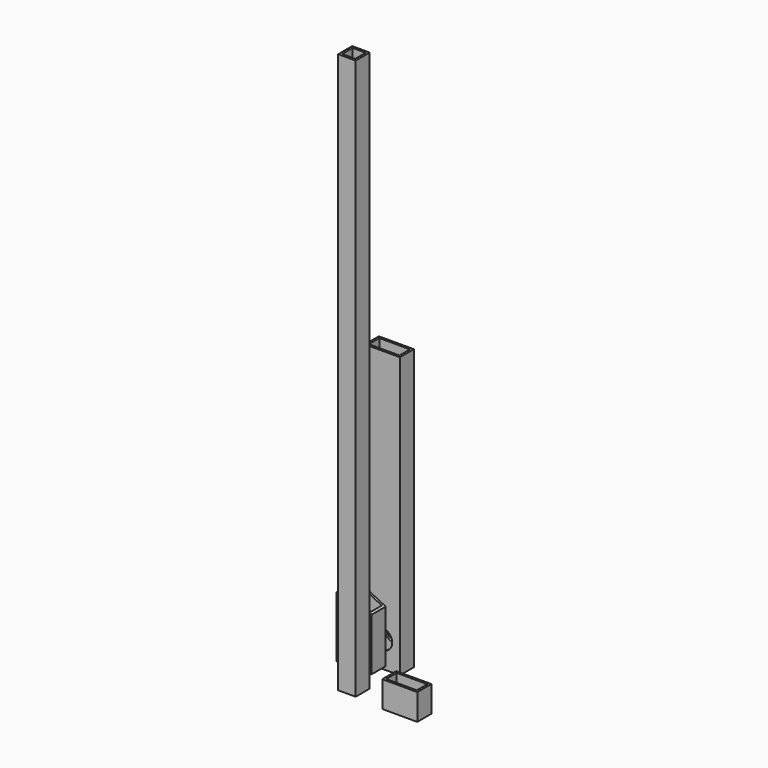
from build123d import *

# Parameters (mm, degrees)
F1_DEPTH  = 25.4
F2_T      = -3.175
F3_W      = 25.4
F3_H      = 25.4
F4_DEPTH  = 812.8
F5_T      = -3.175
F6_W      = 50.8
F6_H      = 25.4
F7_DEPTH  = 38.1
F8_T      = -3.175
F9_W      = 50.8
F9_H      = 25.4
F10_DEPTH = 406.4
F11_T     = -3.175
F12_R     = 14.2875
F13_DEPTH = 25.4


with BuildPart() as f1:
    # F0 (on Front) → F1 (new body)
    with BuildSketch(Plane.XZ):
        Polygon((-57.431955, 101.951429), (-82.831955, 101.951429), (-82.831955, 13.051429), (-32.031955, 13.051429), (-32.031955, 89.251429), align=None)
    extrude(amount=F1_DEPTH)

    # F2
    f2_openings = [f1.faces().sort_by_distance(p)[0] for p in [
        (-44.731955, -12.7, 95.601429),
        (-70.131955, -12.7, 101.951429),
        (-57.431955, -12.7, 13.051429),
    ]]
    offset(amount=F2_T, openings=f2_openings)


with BuildPart() as f4:
    # F3 (on Top) → F4 (new body)
    with BuildSketch(Plane.XY):
        with Locations((-40.149413, -47.575016)):
            Rectangle(F3_W, F3_H)
    extrude(amount=F4_DEPTH)

    # F5
    f5_openings = [f4.faces().sort_by_distance(p)[0] for p in [
        (-40.149413, -47.575016, 812.8),
        (-40.149413, -47.575016, 0),
    ]]
    offset(amount=F5_T, openings=f5_openings)


with BuildPart() as f7:
    # F6 (on Top) → F7 (new body)
    with BuildSketch(Plane.XY):
        with Locations((40.215493, -52.18447)):
            Rectangle(F6_W, F6_H)
    extrude(amount=F7_DEPTH)

    # F8
    f8_openings = [f7.faces().sort_by_distance(p)[0] for p in [
        (40.215493, -52.18447, 38.1),
        (40.215493, -52.18447, 0),
    ]]
    offset(amount=F8_T, openings=f8_openings)


with BuildPart() as f10:
    # F9 (on Top) → F10 (new body)
    with BuildSketch(Plane.XY):
        with Locations((-46.590108, 24.780664)):
            Rectangle(F9_W, F9_H)
    extrude(amount=F10_DEPTH)

    # F11
    f11_openings = [f10.faces().sort_by_distance(p)[0] for p in [
        (-46.590108, 24.780664, 406.4),
        (-46.590108, 24.780664, 0),
    ]]
    offset(amount=F11_T, openings=f11_openings)

    # F12 (on face) → F13 (cut, through all)
    with BuildSketch(Plane(origin=(0, 37.480664, 0), x_dir=(-1, 0, 0), z_dir=(0, 1, 0))):
        with Locations((46.590108, 38.1)):
            Circle(F12_R)
    extrude(amount=-F13_DEPTH, mode=Mode.SUBTRACT)


solid = Compound([f1.part, f4.part, f7.part, f10.part])
